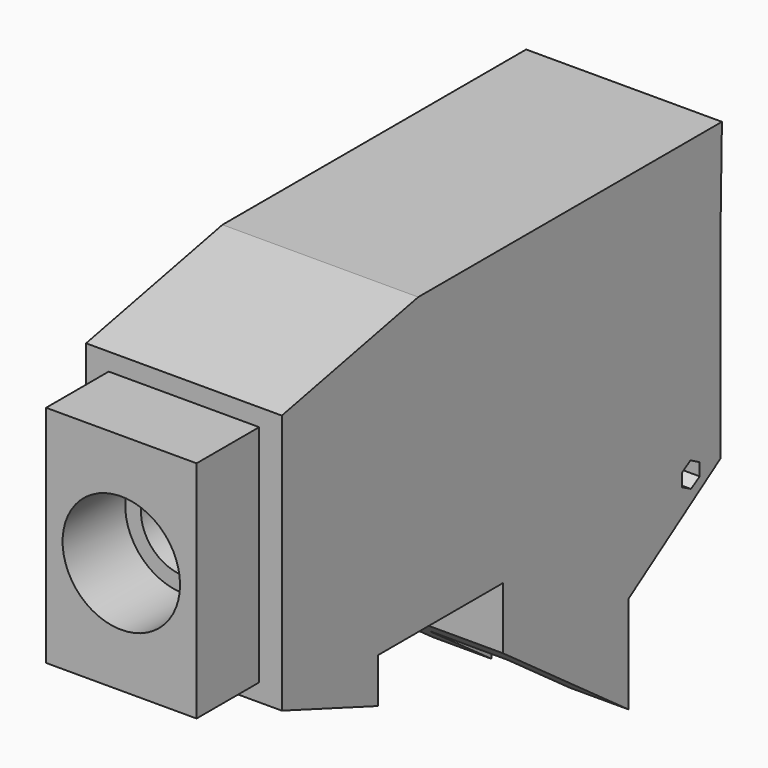
from build123d import *

# Parameters (mm, degrees)
F1_DEPTH  = 63.5
F2_W      = 25.4
F2_H      = 44.800144308
F3_DEPTH  = 25.4
F4_W      = 25.4
F4_H      = 31.5590774218
F5_DEPTH  = 25.4
F6_W      = 48.812078476
F6_H      = 72.883464396
F6_R      = 19.05
F7_DEPTH  = 25.4
F6_R_2    = 13.97
F8_DEPTH  = 90.17
F9_W      = 38.1
F9_H      = 50.8
F10_DEPTH = 33.02
F11_W     = 50.8
F11_H     = 61.1203222922
F12_DEPTH = 7.62
F13_R     = 2.54
F14_DEPTH = 584.2


with BuildPart() as f1:
    # F0 (on Right) → F1 (new body)
    with BuildSketch(Plane.YZ):
        Polygon((88.0636948228, -0.3382474043), (88.0636948228, 60.7820748879), (88.7095872307, 95.6336185336), (-34.4394557178, 95.6336185336), (-89.7363051772, 84.2712447047), (-89.7363051772, 0), (-50.8, -14.504159911), (-50.8, 0), (0, 0), (0, -20.0953550052), (50.8, -56.7663814664), (50.8, -25.2073040446), align=None)
        Polygon((72.5463054062, -2.1647087139), (72.4311518908, 1.9652569746), (75.9502303361, 4.1299656885), (79.5844622969, 2.1647087139), (79.6996158123, -1.9652569746), (76.1805373669, -4.1299656885), align=None, mode=Mode.SUBTRACT)
    extrude(amount=F1_DEPTH)

    # F2 (on face) → F3 (cut)
    with BuildSketch(Plane(origin=(0, 27.2928575232, -40.895508354), x_dir=(1, 0, 0), z_dir=(0, 0.5551110833, -0.831776223))):
        with Locations((31.75, -50.6614504268)):
            Rectangle(F2_W, F2_H)
    extrude(amount=-F3_DEPTH, mode=Mode.SUBTRACT)

    # F4 (on face) → F5 (cut)
    with BuildSketch(Plane(origin=(0, 50.8, 0), x_dir=(-1, 0, 0), z_dir=(0, 1, 0))):
        with Locations((-31.75, -40.9868427555)):
            Rectangle(F4_W, F4_H)
    extrude(amount=-F5_DEPTH, mode=Mode.SUBTRACT)

    # F6 (on face) → F7 (join)
    with BuildSketch(Plane.XZ.offset(89.7363051772)):
        with Locations((31.75, 42.1356223524)):
            Rectangle(F6_W, F6_H)
        with Locations((31.75, 42.1356223524)):
            Circle(F6_R, mode=Mode.SUBTRACT)
    extrude(amount=F7_DEPTH)

    # F6 (on face) → F8 (cut)
    with BuildSketch(Plane.XZ.offset(89.7363051772)):
        with Locations((31.75, 42.1356223524)):
            Circle(F6_R_2)
    extrude(amount=-F8_DEPTH, mode=Mode.SUBTRACT)

    # F9 (on face) → F10 (cut)
    with BuildSketch(Plane(origin=(0, 0, 0), x_dir=(1, 0, 0), z_dir=(0, 0, -1))):
        with Locations((31.75, 25.4)):
            Rectangle(F9_W, F9_H)
    extrude(amount=-F10_DEPTH, mode=Mode.SUBTRACT)

    # F11 (on face) → F12 (cut)
    with BuildSketch(Plane(origin=(0, 88.0636948228, 0), x_dir=(-1, 0, 0), z_dir=(0, 1, 0))):
        with Locations((-31.75, 30.2219137418)):
            Rectangle(F11_W, F11_H)
    extrude(amount=-F12_DEPTH, mode=Mode.SUBTRACT)

    # F13 (on face) → F14 (cut)
    with BuildSketch(Plane.XZ.offset(89.7363051772)):
        with Locations((31.7480713129, 42.1407744288)):
            Circle(F13_R)
    extrude(amount=-F14_DEPTH, mode=Mode.SUBTRACT)


solid = f1.part
